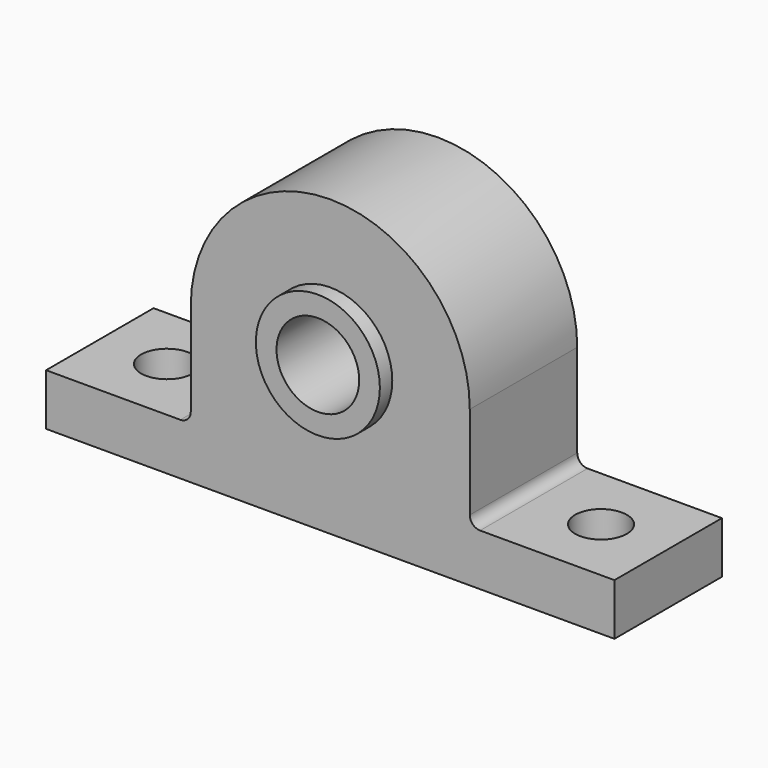
from build123d import *

# Parameters (mm, degrees)
SKETCH_R      = 4
PAD_DEPTH     = 13
SKETCH001_R   = 6
SKETCH001_R_2 = 4
PAD001_DEPTH  = 1.5
SKETCH002_R   = 2.5
POCKET_DEPTH  = 5
FILLET_R      = 1
FILLET001_R   = 1


with BuildPart() as part:
    # Sketch → Pad (new body)
    with BuildSketch(Plane.XZ):
        with BuildLine():
            Line((0, 0), (55, 0))
            Line((55, 0), (55, 5))
            Line((55, 5), (41, 5))
            Line((41, 5), (41, 15))
            ThreePointArc((41, 15), (27.5, 28.5), (14, 15))
            Line((14, 15), (14, 5))
            Line((14, 5), (0, 5))
            Line((0, 5), (0, 0))
        make_face()
        with Locations((27.5, 15)):
            Circle(SKETCH_R, mode=Mode.SUBTRACT)
    extrude(amount=PAD_DEPTH)

    # Sketch001 (on Face11 of Pad) → Pad001 (join)
    with BuildSketch(Plane.XZ.offset(13)):
        with Locations((27.5, 15)):
            Circle(SKETCH001_R)
        with Locations((27.5, 15)):
            Circle(SKETCH001_R_2, mode=Mode.SUBTRACT)
    extrude(amount=PAD001_DEPTH)

    # Sketch002 (on Face7 of Pad001) → Pocket (cut)
    with BuildSketch(Plane(origin=(0, 0, 5), x_dir=(-1, 0, 0), z_dir=(0, 0, 1))):
        with Locations((-6.5, 6.5)):
            Circle(SKETCH002_R)
        with Locations((-48.5, 6.5)):
            Circle(SKETCH002_R)
    extrude(amount=-POCKET_DEPTH, mode=Mode.SUBTRACT)

    # Fillet
    fillet_edges = [part.edges().sort_by_distance(p)[0] for p in [
        (41, -6.5, 5),
    ]]
    fillet(fillet_edges, radius=FILLET_R)

    # Fillet001
    fillet001_edges = [part.edges().sort_by_distance(p)[0] for p in [
        (14, -6.5, 5),
    ]]
    fillet(fillet001_edges, radius=FILLET001_R)


solid = part.part
